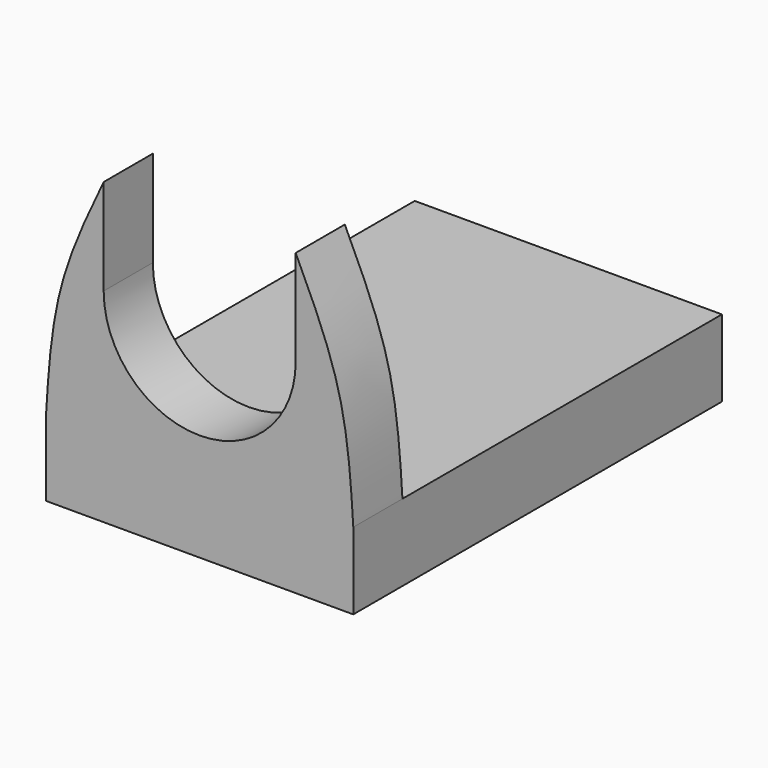
from build123d import *

# Parameters (mm, degrees)
F0_W     = 25.4
F0_H     = 38.1
F1_DEPTH = 6.35
F3_DEPTH = 5.08


with BuildPart() as f1:
    # F0 (on Top) → F1 (new body)
    with BuildSketch(Plane.XY):
        with Locations((12.7, 19.05)):
            Rectangle(F0_W, F0_H)
    extrude(amount=F1_DEPTH)

    # F2 (on face) → F3 (join)
    with BuildSketch(Plane.XZ):
        with BuildLine():
            Line((20.6375, 24.765), (20.6375, 16.8275))
            ThreePointArc((20.6375, 16.8275), (12.7, 8.89), (4.7625, 16.8275))
            Line((4.7625, 16.8275), (4.7625, 24.765))
            add(Edge.make_bspline(
                [(4.7625, 24.765), (3.3686927535, 21.8445697007), (0.6056416057, 15.9246700816), (0.1980293046, 9.5340720789), (0, 6.35)],
                knots=[0, 0, 0, 0, 0.5021426244, 1, 1, 1, 1], degree=3))
            Line((0, 6.35), (25.4, 6.35))
            add(Edge.make_bspline(
                [(20.6375, 24.765), (22.0313072465, 21.8445697007), (24.7943583943, 15.9246700816), (25.2019706954, 9.5340720789), (25.4, 6.35)],
                knots=[0, 0, 0, 0, 0.5021426244, 1, 1, 1, 1], degree=3))
        make_face()
    extrude(amount=-F3_DEPTH)


solid = f1.part
